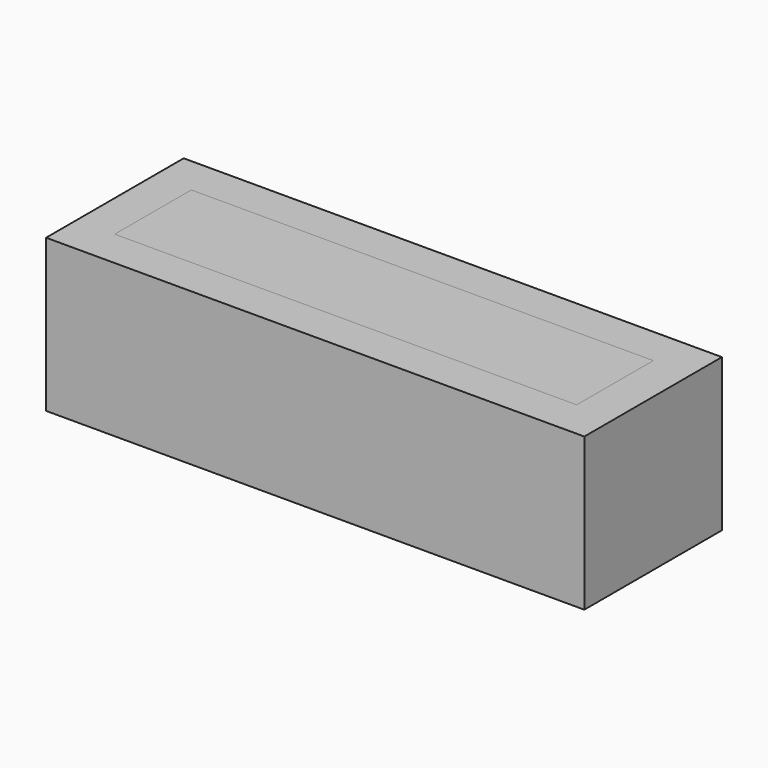
from build123d import *

# Parameters (mm, degrees)
F0_W     = 76.962
F0_H     = 15.9512
F1_DEPTH = 0.254
F3_W     = 89.6620015546
F3_H     = 28.6512015546
F3_W_2   = 76.962
F3_H_2   = 15.9512
F4_DEPTH = 25.4


with BuildPart() as f1:
    # F0 (on Top) → F1 (new body)
    with BuildSketch(Plane.XY):
        with Locations((38.481, 7.9756)):
            Rectangle(F0_W, F0_H)
    extrude(amount=F1_DEPTH)


with BuildPart() as f4:
    # F3 (on offset) → F4 (new body)
    with BuildSketch(Plane.XY.offset(0.254)):
        with Locations((38.481, 7.9756)):
            Rectangle(F3_W, F3_H)
        with Locations((38.481, 7.9756)):
            Rectangle(F3_W_2, F3_H_2, mode=Mode.SUBTRACT)
        with Locations((38.481, 7.9756)):
            Rectangle(F3_W_2, F3_H_2)
    extrude(amount=-F4_DEPTH)

    # F5: cut F1
    add(f1.part, mode=Mode.SUBTRACT)


solid = Compound([f1.part, f4.part])
